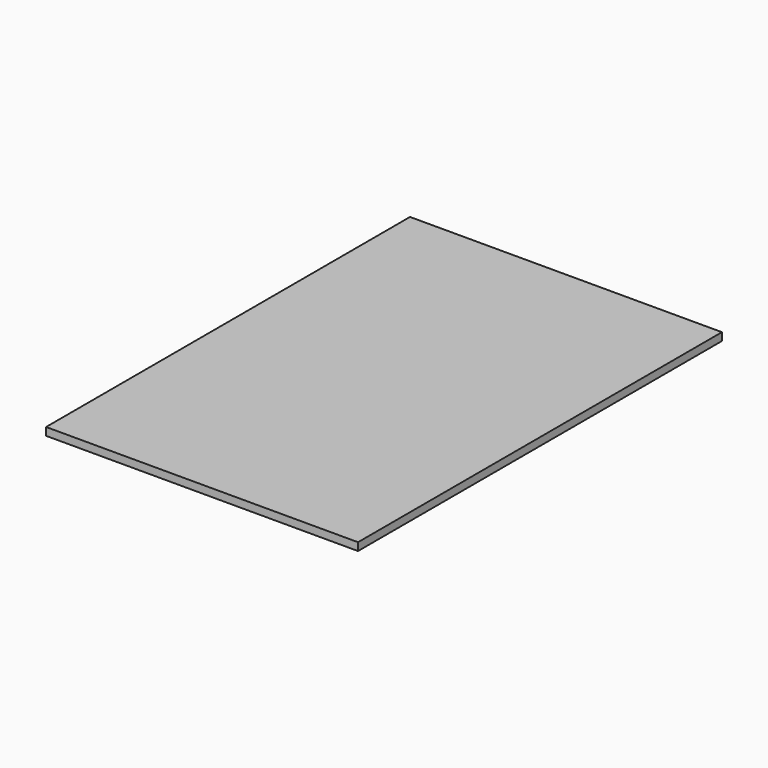
from build123d import *

# Parameters (mm, degrees)
SKETCH_W  = 120
SKETCH_H  = 175
PAD_DEPTH = 3


with BuildPart() as part:
    # Sketch → Pad (new body)
    with BuildSketch(Plane.XY):
        Rectangle(SKETCH_W, SKETCH_H)
    extrude(amount=PAD_DEPTH)


solid = part.part
